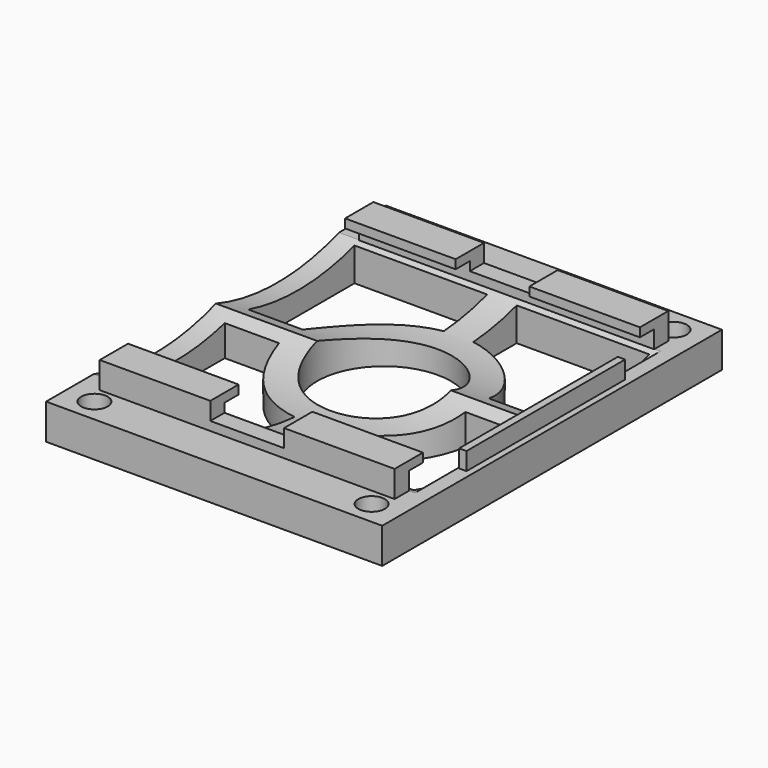
from build123d import *

# Parameters (mm, degrees)
F0_W      = 57
F0_H      = 72
F0_R      = 2.25
F0_R_2    = 11.35
F1_DEPTH  = 6
F2_W      = 50
F2_H      = 3
F3_DEPTH  = 3
F4_W      = 50
F4_H      = 6
F5_DEPTH  = 1.5
F6_W      = 50
F6_H      = 6
F7_DEPTH  = 1.5
F8_W      = 12.50048
F8_H      = 66.124424
F9_DEPTH  = 3
F10_W     = 1.240771
F10_H     = 33.613906
F11_DEPTH = 3
F13_DEPTH = 54.5


with BuildPart() as f1:
    # F0 (on Top) → F1 (new body)
    with BuildSketch(Plane.XY):
        Rectangle(F0_W, F0_H)
        with Locations((-23.5, -32)):
            Circle(F0_R, mode=Mode.SUBTRACT)
        with BuildLine():
            Line((-25, -2.5), (-15.803481, -2.5))
            ThreePointArc((-15.803481, -2.5), (-11.313708, -11.313708), (-2.5, -15.803481))
            Line((-2.5, -15.803481), (-2.5, -25))
            Line((-2.5, -25), (-25, -25))
            Line((-25, -25), (-25, -2.5))
        make_face(mode=Mode.SUBTRACT)
        with Locations((23.5, -32)):
            Circle(F0_R, mode=Mode.SUBTRACT)
        with BuildLine():
            Line((15.803481, -2.5), (25, -2.5))
            Line((25, -2.5), (25, -25))
            Line((25, -25), (2.5, -25))
            Line((2.5, -25), (2.5, -15.803481))
            ThreePointArc((2.5, -15.803481), (11.313708, -11.313708), (15.803481, -2.5))
        make_face(mode=Mode.SUBTRACT)
        with BuildLine():
            Line((-2.5, 25), (-2.5, 15.803481))
            ThreePointArc((-2.5, 15.803481), (-11.313708, 11.313708), (-15.803481, 2.5))
            Line((-15.803481, 2.5), (-25, 2.5))
            Line((-25, 2.5), (-25, 25))
            Line((-25, 25), (-2.5, 25))
        make_face(mode=Mode.SUBTRACT)
        with Locations((-23.5, 32)):
            Circle(F0_R, mode=Mode.SUBTRACT)
        Circle(F0_R_2, mode=Mode.SUBTRACT)
        with BuildLine():
            Line((2.5, 25), (25, 25))
            Line((25, 25), (25, 2.5))
            Line((25, 2.5), (15.803481, 2.5))
            ThreePointArc((15.803481, 2.5), (11.313708, 11.313708), (2.5, 15.803481))
            Line((2.5, 15.803481), (2.5, 25))
        make_face(mode=Mode.SUBTRACT)
        with Locations((23.5, 32)):
            Circle(F0_R, mode=Mode.SUBTRACT)
    extrude(amount=F1_DEPTH)

    # F2 (on face) → F3 (join)
    with BuildSketch(Plane.XY.offset(6)):
        with Locations((0, -27.5)):
            Rectangle(F2_W, F2_H)
        with Locations((0, 27.5)):
            Rectangle(F2_W, F2_H)
    extrude(amount=F3_DEPTH)

    # F4 (on face) → F5 (join)
    with BuildSketch(Plane.XY.offset(9)):
        with Locations((0, -26)):
            Rectangle(F4_W, F4_H)
        with Locations((0, -26)):
            Rectangle(F4_W, F4_H)
    extrude(amount=F5_DEPTH)

    # F6 (on face) → F7 (join)
    with BuildSketch(Plane.XY.offset(9)):
        with Locations((0, 26)):
            Rectangle(F6_W, F6_H)
        with Locations((0, 26)):
            Rectangle(F6_W, F6_H)
    extrude(amount=F7_DEPTH)

    # F8 (on face) → F9 (cut)
    with BuildSketch(Plane.XY.offset(10.5)):
        Rectangle(F8_W, F8_H)
    extrude(amount=-F9_DEPTH, mode=Mode.SUBTRACT)

    # F10 (on face) → F11 (join)
    with BuildSketch(Plane.XY.offset(6)):
        with Locations((26.810841, 0)):
            Rectangle(F10_W, F10_H)
    extrude(amount=F11_DEPTH)

    # F12 (on face) → F13 (cut)
    with BuildSketch(Plane(origin=(-28.5, 0, 0), x_dir=(0, -1, 0), z_dir=(-1, 0, 0))):
        with BuildLine():
            Line((0, 6), (-26.086396, 6))
            ThreePointArc((-26.086396, 6), (-13.043198, 3.813688), (0, 6))
        make_face()
        with BuildLine():
            Line((25.915496, 6), (0, 6))
            ThreePointArc((0, 6), (12.957748, 3.843054), (25.915496, 6))
        make_face()
    extrude(amount=-F13_DEPTH, mode=Mode.SUBTRACT)


solid = f1.part
